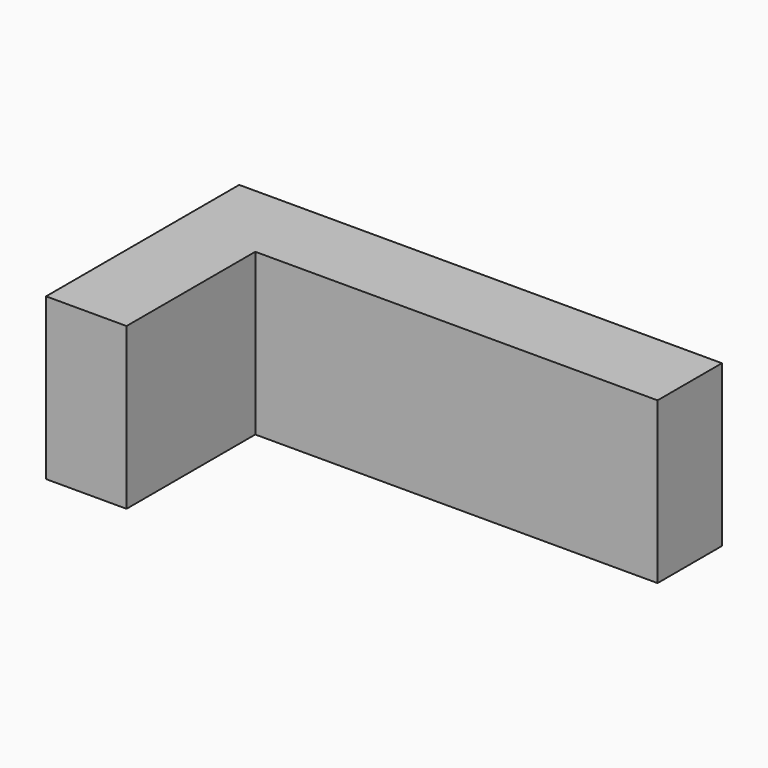
from build123d import *

# Parameters (mm, degrees)
F0_W     = 50.8
F0_H     = 25.4
F1_DEPTH = 50.8


with BuildPart() as f1:
    # F0 (on Top) → F1 (new body)
    with BuildSketch(Plane.XY):
        with Locations((43.003823, 0.562944)):
            Rectangle(F0_W, F0_H)
        Polygon((-83.996177, 13.262944), (-83.996177, -62.937056), (-58.596177, -62.937056), (-58.596177, -12.137056), (17.603823, -12.137056), (17.603823, 13.262944), align=None)
    extrude(amount=F1_DEPTH)


solid = f1.part
